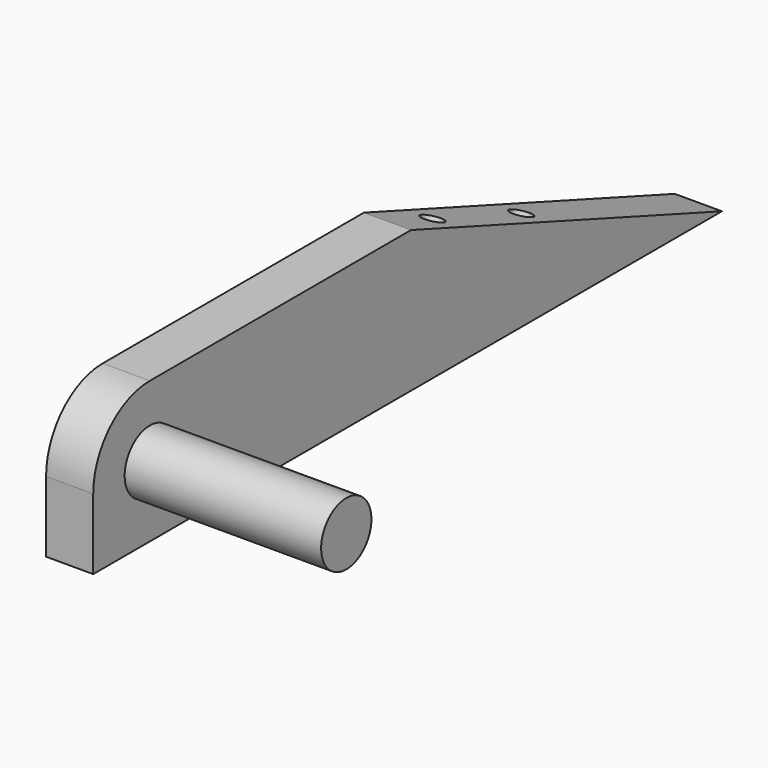
from build123d import *

# Parameters (mm, degrees)
F1_DEPTH = 6
F2_R     = 9
F3_R     = 4
F4_DEPTH = 25
F5_R     = 1.35
F6_DEPTH = 25


with BuildPart() as f1:
    # F0 (on Right) → F1 (new body)
    with BuildSketch(Plane.YZ):
        Polygon((-100, 0), (0, 0), (-49.4545935502, 18), (-100, 18), align=None)
    extrude(amount=F1_DEPTH)

    # F2
    f2_edges = [f1.edges().sort_by_distance(p)[0] for p in [
        (3, -100, 18),
    ]]
    fillet(f2_edges, radius=F2_R)

    # F3 (on face) → F4 (join)
    with BuildSketch(Plane.YZ.offset(6)):
        with Locations((-91, 9)):
            Circle(F3_R)
    extrude(amount=F4_DEPTH)

    # F5 (on face) → F6 (cut)
    with BuildSketch(Plane(origin=(0, 0, 0), x_dir=(1, 0, 0), z_dir=(0, 0.3420201433, 0.9396926208))):
        with Locations((3, -45)):
            Circle(F5_R)
        with Locations((3, -30)):
            Circle(F5_R)
    extrude(amount=-F6_DEPTH, mode=Mode.SUBTRACT)


solid = f1.part
